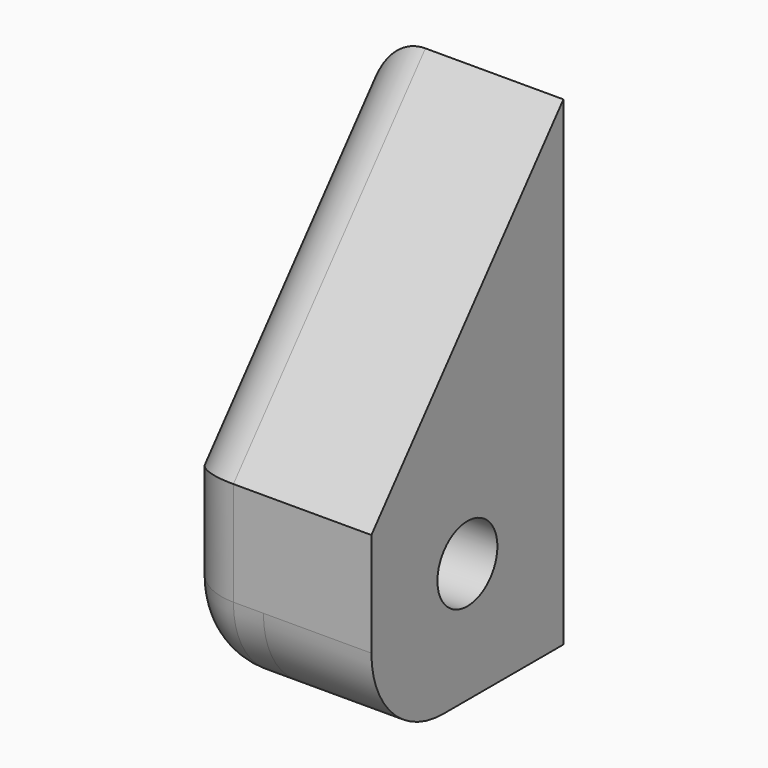
from build123d import *

# Parameters (mm, degrees)
SKETCH062_R  = 1.25
PAD029_DEPTH = 1.8
SKETCH064_R  = 1.25
PAD032_DEPTH = 3
FILLET004_R  = 2


with BuildPart() as part:
    # Sketch062 → Pad029 (new body, symmetric)
    with BuildSketch(Plane.YZ.offset(-41.1)):
        with BuildLine():
            Line((96.000005, 10.999996), (100.999998, 10.999996))
            Line((100.999998, 10.999996), (100.999998, 27))
            Line((100.999998, 27), (92.999998, 17.465971))
            Line((92.999998, 14), (92.999998, 17.465971))
            ThreePointArc((92.999998, 14), (93.878624, 11.87862), (96.000005, 10.999996))
        make_face()
        with Locations((97, 15)):
            Circle(SKETCH062_R, mode=Mode.SUBTRACT)
    extrude(amount=PAD029_DEPTH, both=True)

    # Sketch064 (on Face7 of Clone022) → Pad032 (new body)
    with BuildSketch(Plane(origin=(-42.9, 0, 0), x_dir=(0, -1, 0), z_dir=(-1, 0, 0))):
        with BuildLine():
            Line((-100.999998, 27), (-92.999998, 17.465971))
            Line((-92.999998, 17.465971), (-92.999998, 14))
            ThreePointArc((-96.000005, 10.999996), (-93.87868, 11.878676), (-92.999998, 14))
            Line((-96.000005, 10.999996), (-100.999998, 10.999996))
            Line((-100.999998, 10.999996), (-100.999998, 27))
        make_face()
        with Locations((-97, 15)):
            Circle(SKETCH064_R, mode=Mode.SUBTRACT)
    extrude(amount=PAD032_DEPTH)

    # Fillet004
    fillet004_edges = [part.edges().sort_by_distance(p)[0] for p in [
        (-45.9, 98.500001, 10.999996),
        (-45.9, 93.87868, 11.878676),
        (-45.9, 92.999998, 15.732986),
        (-45.9, 96.999998, 22.232986),
    ]]
    fillet(fillet004_edges, radius=FILLET004_R)


with BuildPart() as part_1:
    # Body045 placement: moved
    add(part.part.moved(Location((82.2, 0, 0))))


solid = part_1.part
